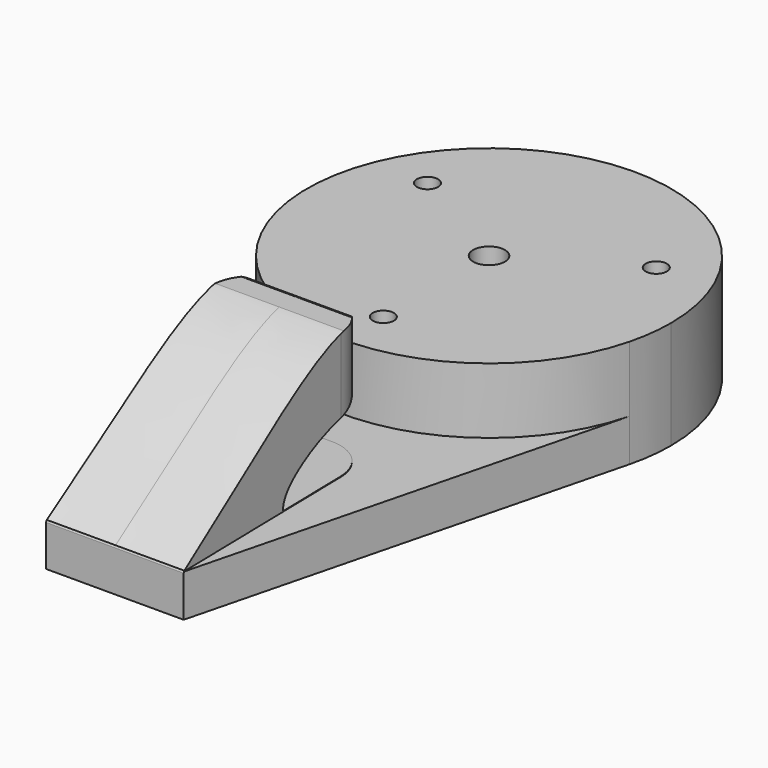
from build123d import *

# Parameters (mm, degrees)
F0_R     = 0.5
F0_R_2   = 0.75
F1_DEPTH = 5.1
F2_DEPTH = 2
F4_DEPTH = 6
F6_DEPTH = 12.5


with BuildPart() as f1:
    # F0 (on Top) → F1 (new body)
    with BuildSketch(Plane.XY):
        with BuildLine():
            ThreePointArc((8.3343568954, -2.1209656149), (8.5333308063, -1.0687681459), (8.6, 0))
            ThreePointArc((8.6, 0), (-1.0687681459, 8.5333308063), (-8.3343568954, -2.1209656149))
            ThreePointArc((-8.3343568954, -2.1209656149), (0, -8.6), (8.3343568954, -2.1209656149))
        make_face()
        with Locations((-5.405664058, 3.1209615991)):
            Circle(F0_R, mode=Mode.SUBTRACT)
        with Locations((0, -6.2419231981)):
            Circle(F0_R, mode=Mode.SUBTRACT)
        Circle(F0_R_2, mode=Mode.SUBTRACT)
        with Locations((5.405664058, 3.1209615991)):
            Circle(F0_R, mode=Mode.SUBTRACT)
    extrude(amount=F1_DEPTH)

    # F0 (on Top) → F2 (join)
    with BuildSketch(Plane.XY):
        with BuildLine():
            ThreePointArc((8.3343568954, -2.1209656149), (0, -8.6), (-8.3343568954, -2.1209656149))
            Line((-8.3343568954, -2.1209656149), (-3.25, -22.1))
            Line((-3.25, -22.1), (3.25, -22.1))
            Line((3.25, -22.1), (8.3343568954, -2.1209656149))
        make_face()
    extrude(amount=F2_DEPTH)

    # F3 (on face) → F4 (join)
    with BuildSketch(Plane.XY.offset(2)):
        with BuildLine():
            Line((-3.0482308868, -12.5577199533), (-3.25, -22.1))
            Line((-3.25, -22.1), (3.25, -22.1))
            Line((3.25, -22.1), (3.0482308868, -12.5577199533))
            ThreePointArc((3.0482308868, -12.5577199533), (2.447863298, -11.1709163612), (1.0486778373, -10.6))
            Line((1.0486778373, -10.6), (-1.0486778373, -10.6))
            ThreePointArc((-1.0486778373, -10.6), (-2.447863298, -11.1709163612), (-3.0482308868, -12.5577199533))
        make_face()
    extrude(amount=F4_DEPTH)

    # F5 (on Right) → F6 (intersect, symmetric)
    with BuildSketch(Plane.YZ):
        with BuildLine():
            add(Edge.make_bspline(
                [(-22.0577802784, 2.0259046448), (-17.8050547421, 4.9004560213), (-14.5293847897, 7.5751652736), (-10.4708936119, 8.5418524459), (-10.5693109534, 4.5828096798), (-13.2662088909, 4.6015626195), (-16.1733651308, 2.8726245308), (-16.0577802784, 2.0259046448)],
                knots=[0, 0, 0, 0, 0.3238992112, 0.4862577355, 0.646782374, 0.8105162215, 1, 1, 1, 1], degree=3))
            Line((-22.0577802784, 2.0259046448), (-23.0374708772, 0))
            Line((-23.0374708772, 0), (-19.6792803642, -1.6239597866))
            Line((-19.6792803642, -1.6239597866), (11.3044586033, -3.4222211689))
            Line((11.3044586033, -3.4222211689), (11.6330533383, 2.2394104473))
            Line((11.6330533383, 2.2394104473), (9.3493293971, 8.4649659693))
            Line((9.3493293971, 8.4649659693), (-3.0461885035, 7.9566333443))
            Line((-3.0461885035, 7.9566333443), (-9.4479173422, 6.1554415151))
            Line((-9.4479173422, 6.1554415151), (-9.5424316823, 4.2449091561))
            Line((-9.5424316823, 4.2449091561), (-10.334789753, 2.0259046448))
            Line((-10.334789753, 2.0259046448), (-16.0577802784, 2.0259046448))
        make_face()
    extrude(amount=F6_DEPTH, both=True, mode=Mode.INTERSECT)


solid = f1.part
